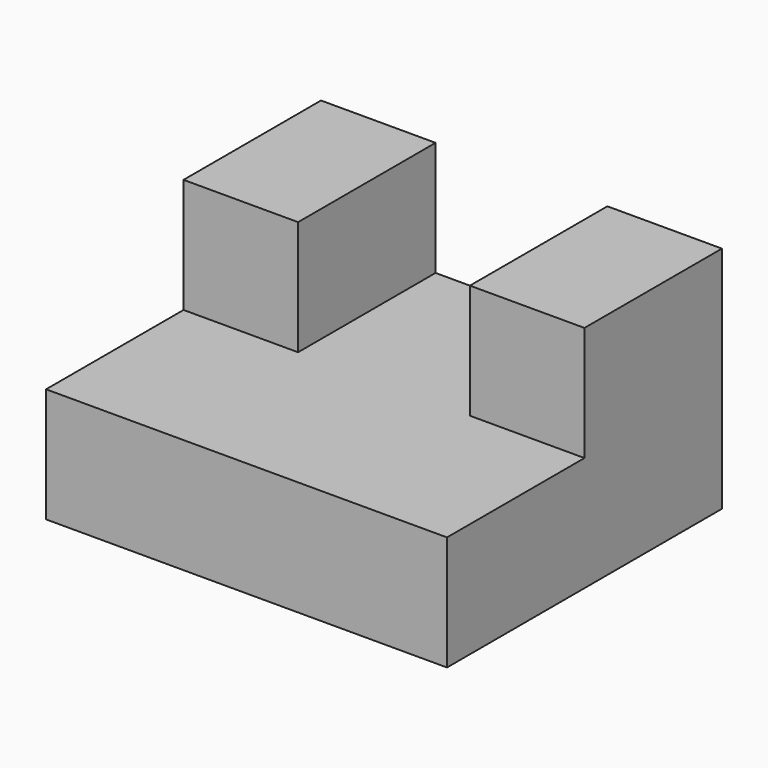
from build123d import *

# Parameters (mm, degrees)
F0_W     = 88.9
F0_H     = 25.4
F1_DEPTH = 76.2
F2_W     = 25.4
F2_H     = 38.1
F3_DEPTH = 25.4
F4_W     = 25.4
F4_H     = 38.1
F5_DEPTH = 25.4


with BuildPart() as f1:
    # F0 (on Front) → F1 (new body)
    with BuildSketch(Plane.XZ):
        with Locations((-12.226051, -47.052022)):
            Rectangle(F0_W, F0_H)
    extrude(amount=F1_DEPTH)

    # F2 (on face) → F3 (join)
    with BuildSketch(Plane.XY.offset(-34.352022)):
        with Locations((-43.976051, -19.05)):
            Rectangle(F2_W, F2_H)
    extrude(amount=F3_DEPTH)

    # F4 (on face) → F5 (join)
    with BuildSketch(Plane.XY.offset(-34.352022)):
        with Locations((19.523949, -19.05)):
            Rectangle(F4_W, F4_H)
    extrude(amount=F5_DEPTH)


solid = f1.part
